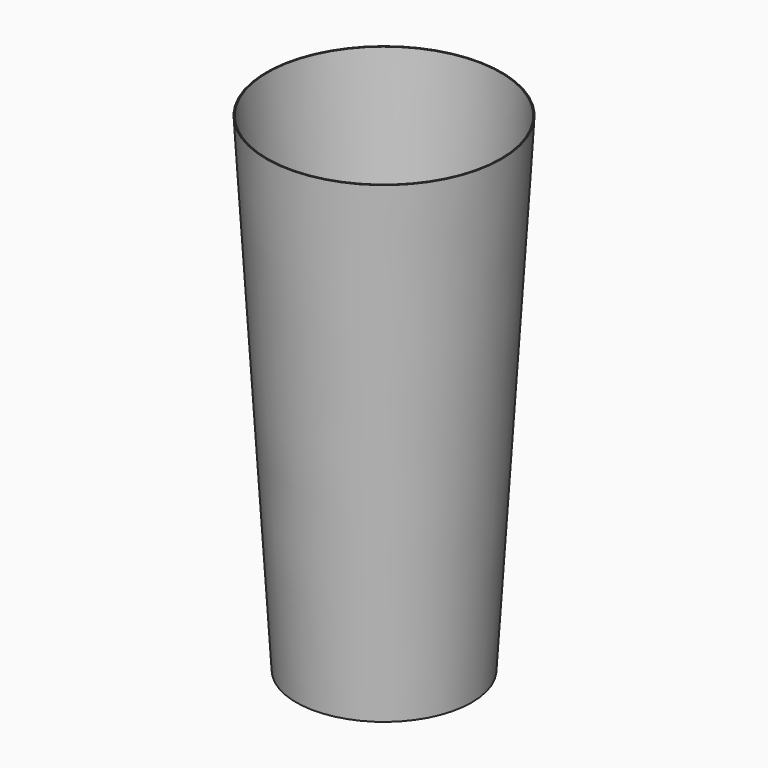
from build123d import *

# Parameters (mm, degrees)
F0_R     = 42.8625
F1_DEPTH = 177.8
F1_TAPER = 3.5
F2_T     = -0.381


with BuildPart() as f1:
    # F0 (on Top) → F1 (new body)
    with BuildSketch(Plane.XY):
        Circle(F0_R)
    extrude(amount=-F1_DEPTH, taper=F1_TAPER)

    # F2
    f2_openings = [f1.faces().sort_by_distance(p)[0] for p in [
        (0, 0, 0),
    ]]
    offset(amount=F2_T, openings=f2_openings, kind=Kind.INTERSECTION)


solid = f1.part
